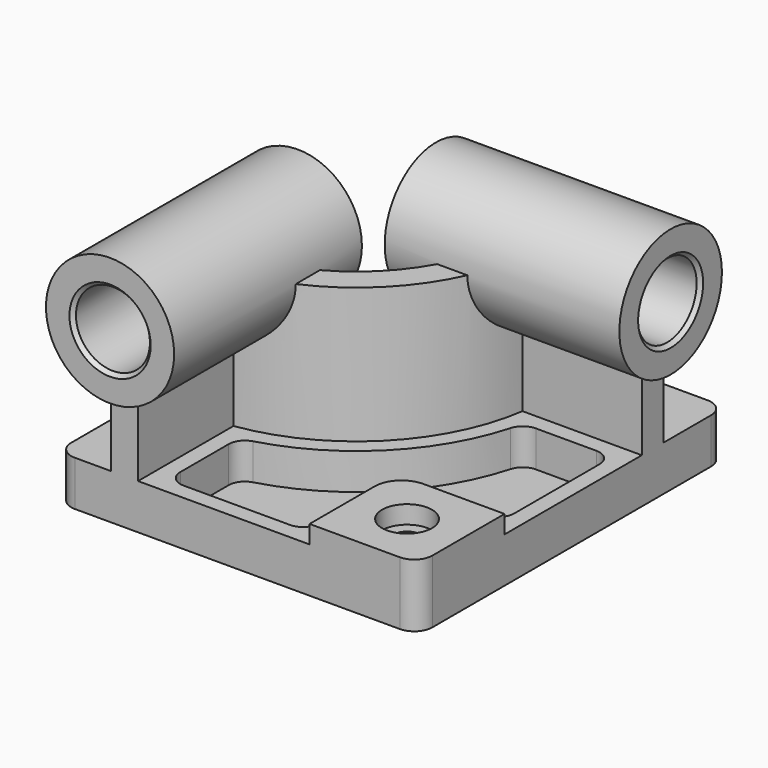
from build123d import *

# Parameters (mm, degrees)
F1_DEPTH  = 25
F3_DEPTH  = 75
F5_DEPTH  = 10
F7_R      = 13.8307060356
F7_R_2    = 7.44
F8_DEPTH  = 10
F9_DEPTH  = 35.001
F11_DEPTH = 20
F13_R     = 35.5
F14_DEPTH = 130
F15_R     = 20.5
F16_DEPTH = 223.001
F18_R     = 35.5
F19_DEPTH = 130
F20_R     = 20.5
F21_DEPTH = 210.001
F22_SIZE  = 2


with BuildPart() as f1:
    # F0 (on Top) → F1 (new body)
    with BuildSketch(Plane.XY):
        with BuildLine():
            Line((-190, 0), (-10, 0))
            ThreePointArc((-10, 0), (-2.9289321881, 2.9289321881), (0, 10))
            Line((0, 10), (0, 203))
            ThreePointArc((0, 203), (-2.9289321881, 210.0710678119), (-10, 213))
            Line((-10, 213), (-190, 213))
            ThreePointArc((-190, 213), (-197.0710678119, 210.0710678119), (-200, 203))
            Line((-200, 203), (-200, 10))
            ThreePointArc((-200, 10), (-197.0710678119, 2.9289321881), (-190, 0))
        make_face()
    extrude(amount=F1_DEPTH)

    # F2 (on face) → F3 (join)
    with BuildSketch(Plane.XY.offset(25)):
        with BuildLine():
            Line((0, 155.0000011921), (0, 170))
            Line((0, 170), (-80, 170))
            ThreePointArc((-80, 170), (-106.3603896932, 106.3603896932), (-170, 80))
            Line((-170, 80), (-170, 0))
            Line((-170, 0), (-155, 0))
            Line((-155, 0), (-155, 66.0769515459))
            ThreePointArc((-155, 66.0769515459), (-95.7537875496, 95.7537884012), (-66.0769513738, 155.0000011921))
            Line((-66.0769513738, 155.0000011921), (0, 155.0000011921))
        make_face()
    extrude(amount=F3_DEPTH)

    # F4 (on face) → F5 (join)
    with BuildSketch(Plane.XY.offset(25)):
        with BuildLine():
            Line((0, 60), (-45, 60))
            ThreePointArc((-45, 60), (-55.6066017178, 55.6066017178), (-60, 45))
            Line((-60, 45), (-60, 0))
            Line((-60, 0), (-10, 0))
            ThreePointArc((-10, 0), (-2.9289321881, 2.9289321881), (0, 10))
            Line((0, 10), (0, 60))
        make_face()
    extrude(amount=F5_DEPTH)

    # F7 (on face) → F8 (cut)
    with BuildSketch(Plane.XY.offset(35)):
        with Locations((-30, 30)):
            Circle(F7_R)
        with Locations((-30, 30)):
            Circle(F7_R_2, mode=Mode.SUBTRACT)
    extrude(amount=-F8_DEPTH, mode=Mode.SUBTRACT)

    # F7 (on face) → F9 (cut, through all)
    with BuildSketch(Plane.XY.offset(35)):
        with Locations((-30, 30)):
            Circle(F7_R_2)
    extrude(amount=-F9_DEPTH, mode=Mode.SUBTRACT)

    # F10 (on face) → F11 (cut)
    with BuildSketch(Plane.XY.offset(25)):
        with BuildLine():
            ThreePointArc((-78, 9), (-71.6360389693, 11.6360389693), (-69, 18))
            Line((-69, 18), (-69, 45))
            ThreePointArc((-69, 45), (-61.9705627485, 61.9705627485), (-45, 69))
            Line((-45, 69), (-18, 69))
            ThreePointArc((-18, 69), (-11.6360389693, 71.6360389693), (-9, 78))
            Line((-9, 78), (-9, 137.0000011921))
            ThreePointArc((-9, 137.0000011921), (-11.6360389693, 143.3639622228), (-18, 146.0000011921))
            Line((-18, 146.0000011921), (-51.5094937192, 146.0000011921))
            ThreePointArc((-51.5094937192, 146.0000011921), (-56.9532191654, 144.1669986991), (-60.1795307641, 139.4146352512))
            ThreePointArc((-60.1795307641, 139.4146352512), (-89.3898265392, 89.3898273502), (-139.4146341463, 60.1795310719))
            ThreePointArc((-139.4146341463, 60.1795310719), (-144.1669975344, 56.9532194614), (-146, 51.5094940512))
            Line((-146, 51.5094940512), (-146, 18))
            ThreePointArc((-146, 18), (-143.3639610307, 11.6360389693), (-137, 9))
            Line((-137, 9), (-78, 9))
        make_face()
    extrude(amount=-F11_DEPTH, mode=Mode.SUBTRACT)

    # F13 (on offset) → F14 (join)
    with BuildSketch(Plane.XZ.offset(10)):
        with Locations((-162.5, 100)):
            Circle(F13_R)
    extrude(amount=-F14_DEPTH)

    # F15 (on face) → F16 (cut, through all)
    with BuildSketch(Plane.XZ.offset(10)):
        with Locations((-162.5, 100)):
            Circle(F15_R)
    extrude(amount=-F16_DEPTH, mode=Mode.SUBTRACT)

    # F18 (on offset) → F19 (join)
    with BuildSketch(Plane.YZ.offset(10)):
        with Locations((162.5, 100)):
            Circle(F18_R)
    extrude(amount=-F19_DEPTH)

    # F20 (on face) → F21 (cut, through all)
    with BuildSketch(Plane.YZ.offset(10)):
        with Locations((162.5, 100)):
            Circle(F20_R)
    extrude(amount=-F21_DEPTH, mode=Mode.SUBTRACT)

    # F22
    f22_edges = [f1.edges().sort_by_distance(p)[0] for p in [
        (10, 142, 100),
        (-183, -10, 100),
        (-120, 142, 100),
        (-183, 120, 100),
    ]]
    chamfer(f22_edges, length=F22_SIZE)


solid = f1.part
